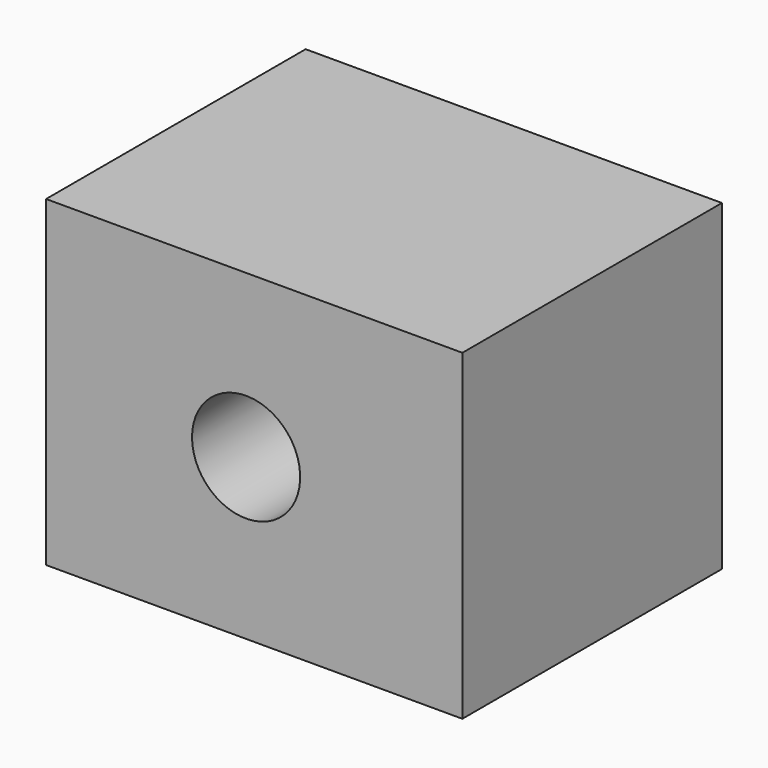
from build123d import *

# Parameters (mm, degrees)
F0_W     = 97.777675
F0_H     = 75.684355
F1_DEPTH = 38.1
F3_D     = 25.4


with BuildPart() as f1:
    # F0 (on Front) → F1 (new body, symmetric)
    with BuildSketch(Plane.XZ):
        with Locations((1.911162, 0.257823)):
            Rectangle(F0_W, F0_H)
    extrude(amount=F1_DEPTH, both=True)

    # F3 (through all)
    with Locations(Plane.XZ.offset(38.1)):
        with Locations((0, 0)):
            Hole(F3_D / 2)


solid = f1.part
